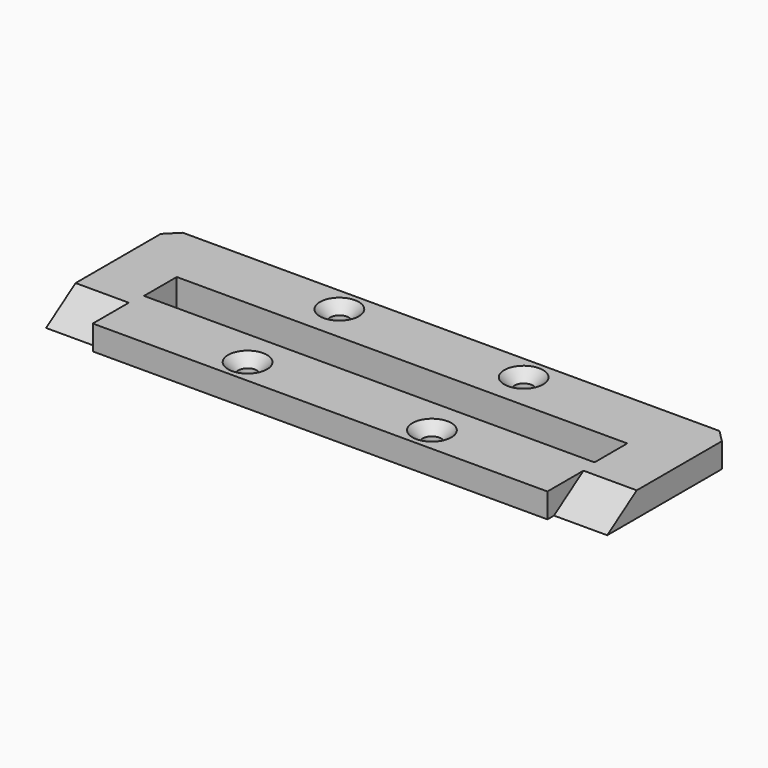
from build123d import *

# Parameters (mm, degrees)
F1_DEPTH       = 6
F3_DEPTH       = 13
F5_D           = 4.5
F5_CSINK_D     = 9.5
F5_CSINK_ANGLE = 90
F7_W           = 110
F7_H           = 10
F8_DEPTH       = 4
F9_SIZE        = 3


with BuildPart() as f1:
    # F0 (on Top) → F1 (new body)
    with BuildSketch(Plane.XY):
        Polygon((0, 20), (-68.5, 20), (-68.5, -20), (0, -20), (0, -5), (-55, -5), (-55, 5), (0, 5), align=None)
    extrude(amount=F1_DEPTH)

    # F2 (on face) → F3 (cut)
    with BuildSketch(Plane(origin=(-68.5, 0, 0), x_dir=(0, -1, 0), z_dir=(-1, 0, 0))):
        Polygon((20, 0), (20, 6), (9, 6), (18, 0), align=None)
    extrude(amount=-F3_DEPTH, mode=Mode.SUBTRACT)

    # F5 (through all)
    with Locations(Plane.XY.offset(6)):
        with Locations((-22.5, 14), (-22.5, -14)):
            CounterSinkHole(F5_D / 2, F5_CSINK_D / 2, counter_sink_angle=F5_CSINK_ANGLE)

    # F6: F1 across plane


with BuildPart() as f1_1:
    add(f1.part)
    add(f1.part.mirror(Plane.YZ))

    # F7 (on face) → F8 (join)
    with BuildSketch(Plane(origin=(0, 0, 0), x_dir=(1, 0, 0), z_dir=(0, 0, -1))):
        with BuildLine():
            Line((54.375, 6.955), (-54.375, 6.955))
            ThreePointArc((-54.375, 6.955), (-59.3088119137, 4.9206318833), (-61.3748553556, 0))
            ThreePointArc((-61.3748553556, 0), (-59.3088119137, -4.9206318833), (-54.375, -6.955))
            Line((-54.375, -6.955), (54.375, -6.955))
            ThreePointArc((54.375, -6.955), (59.3088119137, -4.9206318833), (61.3748553556, 0))
            ThreePointArc((61.3748553556, 0), (59.3088119137, 4.9206318833), (54.375, 6.955))
        make_face()
        Rectangle(F7_W, F7_H, mode=Mode.SUBTRACT)
    extrude(amount=F8_DEPTH)

    # F9
    f9_edges = [f1_1.edges().sort_by_distance(p)[0] for p in [
        (-68.5, 20, 3),
        (68.5, 20, 3),
    ]]
    chamfer(f9_edges, length=F9_SIZE)


solid = f1_1.part
